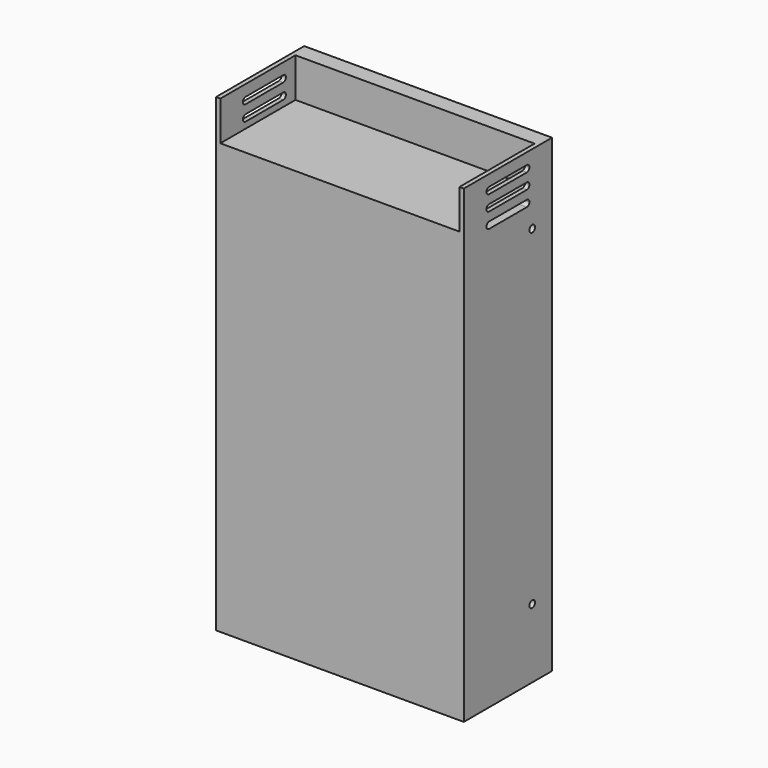
from build123d import *

# Parameters (mm, degrees)
F0_W     = 113.5
F0_H     = 50.5
F1_DEPTH = 215
F3_DEPTH = 113.501
F4_W     = 109.5
F4_H     = 18
F5_DEPTH = 43
F6_R     = 1.595
F7_DEPTH = 113.501
F8_R     = 1.595
F9_DEPTH = 10


with BuildPart() as f1:
    # F0 (on Top) → F1 (new body)
    with BuildSketch(Plane.XY):
        with Locations((56.75, 25.25)):
            Rectangle(F0_W, F0_H)
    extrude(amount=F1_DEPTH)

    # F2 (on face) → F3 (cut, through all)
    with BuildSketch(Plane.YZ.offset(113.5)):
        with BuildLine():
            Line((36.05, 209.85), (14.45, 209.85))
            ThreePointArc((14.45, 209.85), (13.38934, 209.41066), (12.95, 208.35))
            ThreePointArc((12.95, 208.35), (13.38934, 207.28934), (14.45, 206.85))
            Line((14.45, 206.85), (36.05, 206.85))
            ThreePointArc((36.05, 206.85), (37.11066, 207.28934), (37.55, 208.35))
            ThreePointArc((37.55, 208.35), (37.11066, 209.41066), (36.05, 209.85))
        make_face()
        with BuildLine():
            ThreePointArc((12.95, 201.35), (13.38934, 200.28934), (14.45, 199.85))
            Line((14.45, 199.85), (36.05, 199.85))
            ThreePointArc((36.05, 199.85), (37.11066, 200.28934), (37.55, 201.35))
            ThreePointArc((37.55, 201.35), (37.11066, 202.41066), (36.05, 202.85))
            Line((36.05, 202.85), (14.45, 202.85))
            ThreePointArc((14.45, 202.85), (13.38934, 202.41066), (12.95, 201.35))
        make_face()
        with BuildLine():
            ThreePointArc((12.95, 194.35), (13.38934, 193.28934), (14.45, 192.85))
            Line((14.45, 192.85), (36.05, 192.85))
            ThreePointArc((36.05, 192.85), (37.11066, 193.28934), (37.55, 194.35))
            ThreePointArc((37.55, 194.35), (37.11066, 195.41066), (36.05, 195.85))
            Line((36.05, 195.85), (14.45, 195.85))
            ThreePointArc((14.45, 195.85), (13.38934, 195.41066), (12.95, 194.35))
        make_face()
    extrude(amount=-F3_DEPTH, mode=Mode.SUBTRACT)

    # F4 (on face) → F5 (cut)
    with BuildSketch(Plane.XZ):
        with Locations((56.75, 206)):
            Rectangle(F4_W, F4_H)
    extrude(amount=-F5_DEPTH, mode=Mode.SUBTRACT)

    # F6 (on face) → F7 (cut, through all)
    with BuildSketch(Plane.YZ.offset(113.5)):
        with Locations((39.155, 31.595)):
            Circle(F6_R)
        with Locations((39.155, 182.905)):
            Circle(F6_R)
    extrude(amount=-F7_DEPTH, mode=Mode.SUBTRACT)

    # F8 (on face) → F9 (cut)
    with BuildSketch(Plane(origin=(0, 0, 0), x_dir=(0, -1, 0), z_dir=(-1, 0, 0))):
        with Locations((-13.345, 182.905)):
            Circle(F8_R)
        with Locations((-13.345, 31.595)):
            Circle(F8_R)
    extrude(amount=-F9_DEPTH, mode=Mode.SUBTRACT)


solid = f1.part
